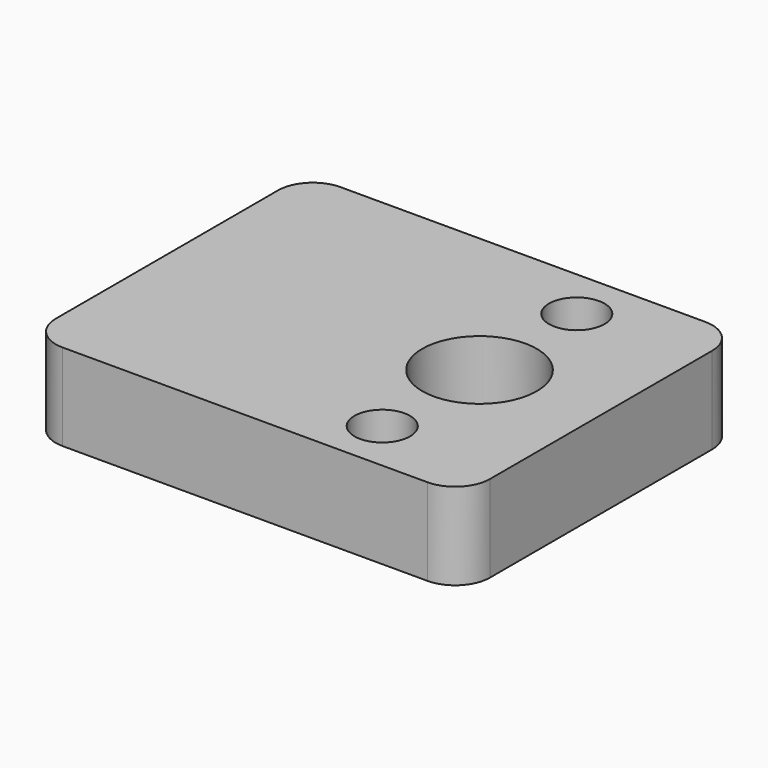
from build123d import *

# Parameters (mm, degrees)
F0_W     = 25
F0_H     = 20
F1_DEPTH = 5
F3_D     = 6.6
F3_DEPTH = 10
F3_TIP   = 1.9828400428
F4_R     = 2
F6_D     = 3.2
F6_DEPTH = 6
F6_TIP   = 0.9613769904


with BuildPart() as f1:
    # F0 (on Top) → F1 (new body)
    with BuildSketch(Plane.XY):
        Rectangle(F0_W, F0_H)
    extrude(amount=F1_DEPTH)

    # F3
    with Locations(Plane.XY.offset(5)):
        with Locations((5.5, 0)):
            Hole(F3_D / 2, depth=F3_DEPTH)
            with Locations((0, 0, -(F3_DEPTH + F3_TIP / 2))):  # 118° drill point
                Cone(0, F3_D / 2, F3_TIP, mode=Mode.SUBTRACT)

    # F4
    f4_edges = [f1.edges().sort_by_distance(p)[0] for p in [
        (-12.5, -10, 2.5),
        (-12.5, 10, 2.5),
        (12.5, -10, 2.5),
        (12.5, 10, 2.5),
    ]]
    fillet(f4_edges, radius=F4_R)

    # F6
    with Locations(Plane.XY.offset(5)):
        with Locations((5.5, 7), (5.5, -7)):
            Hole(F6_D / 2, depth=F6_DEPTH)
            with Locations((0, 0, -(F6_DEPTH + F6_TIP / 2))):  # 118° drill point
                Cone(0, F6_D / 2, F6_TIP, mode=Mode.SUBTRACT)


solid = f1.part
